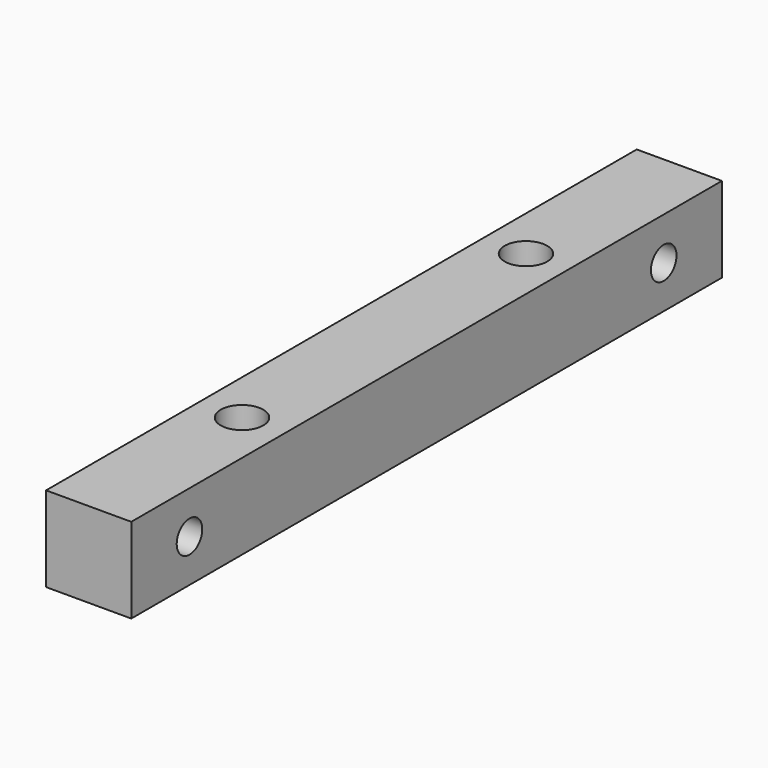
from build123d import *

# Parameters (mm, degrees)
F0_W     = 9.525
F0_H     = 9.525
F1_DEPTH = 41.275
F2_R     = 1.7859375
F3_DEPTH = 9.526
F4_R     = 2.38125
F5_DEPTH = 9.526


with BuildPart() as f1:
    # F0 (on Front) → F1 (new body, symmetric)
    with BuildSketch(Plane.XZ):
        Rectangle(F0_W, F0_H)
    extrude(amount=F1_DEPTH, both=True)

    # F2 (on face) → F3 (cut, through all)
    with BuildSketch(Plane(origin=(-4.7625, 0, 0), x_dir=(0, -1, 0), z_dir=(-1, 0, 0))):
        with Locations((-33.1390625, 0)):
            Circle(F2_R)
        with Locations((33.1390625, 0)):
            Circle(F2_R)
    extrude(amount=-F3_DEPTH, mode=Mode.SUBTRACT)

    # F4 (on face) → F5 (cut, through all)
    with BuildSketch(Plane.XY.offset(4.7625)):
        with Locations((0, 19.84375)):
            Circle(F4_R)
        with Locations((0, -19.84375)):
            Circle(F4_R)
    extrude(amount=-F5_DEPTH, mode=Mode.SUBTRACT)


solid = f1.part
